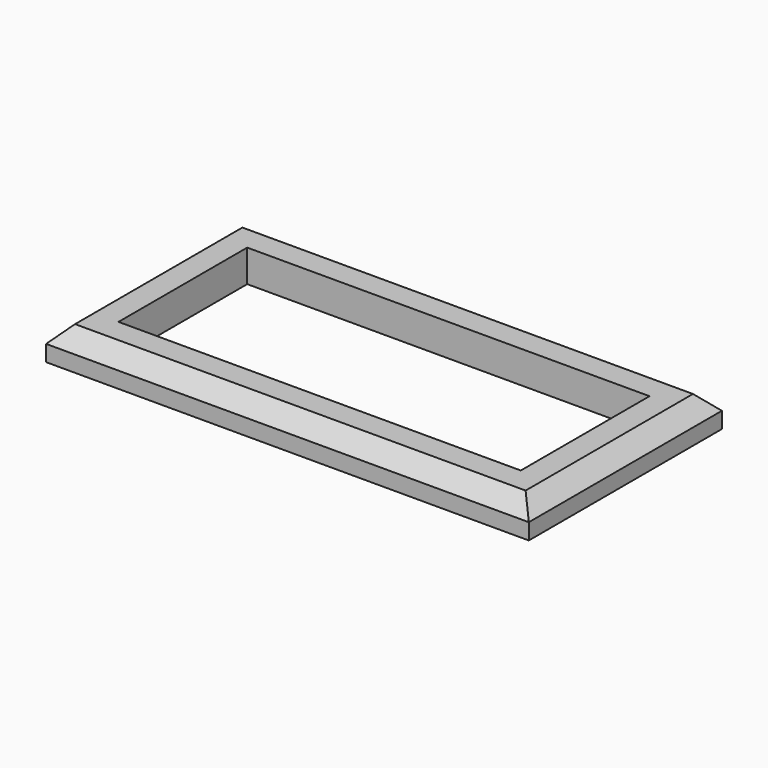
from build123d import *

# Parameters (mm, degrees)
SKETCH_W     = 60
SKETCH_H     = 30
SKETCH_W_2   = 50
SKETCH_H_2   = 20
PAD_DEPTH    = 4
CHAMFER_SIZE = 2


with BuildPart() as part:
    # Sketch → Pad (new body)
    with BuildSketch(Plane.XY):
        Rectangle(SKETCH_W, SKETCH_H)
        Rectangle(SKETCH_W_2, SKETCH_H_2, mode=Mode.SUBTRACT)
    extrude(amount=PAD_DEPTH)

    # Chamfer
    chamfer_edges = [part.edges().sort_by_distance(p)[0] for p in [
        (0, -15, 4),
        (30, 0, 4),
        (0, 15, 4),
        (-30, 0, 4),
    ]]
    chamfer(chamfer_edges, length=CHAMFER_SIZE)


solid = part.part
